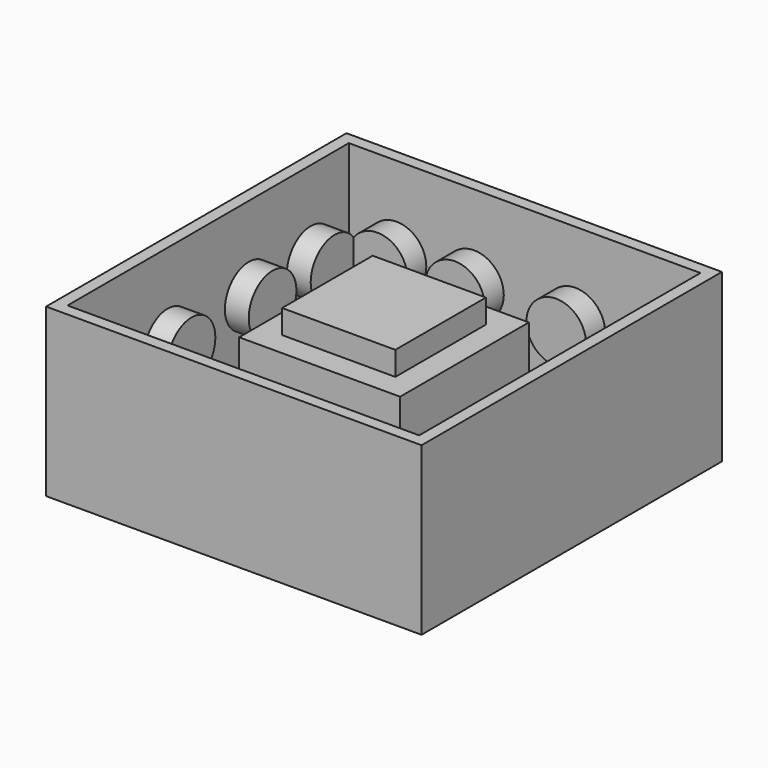
from build123d import *

# Parameters (mm, degrees)
F0_W      = 80.01
F0_H      = 80.01
F0_W_2    = 69.85
F0_H_2    = 69.85
F1_DEPTH  = 35.56
F2_T      = -2.54
F3_W      = 34.29
F3_H      = 34.29
F3_W_2    = 24.13
F3_H_2    = 24.13
F4_DEPTH  = 25.4
F5_DEPTH  = 30.48
F6_R      = 6.35
F10_DEPTH = 5.08
F7_R      = 6.35
F11_DEPTH = 5.08
F9_R      = 6.35
F12_DEPTH = 5.08
F8_R      = 6.35
F13_DEPTH = 5.08


with BuildPart() as f1:
    # F0 (on Top) → F1 (new body)
    with BuildSketch(Plane.XY):
        with Locations((-40.005, 40.005)):
            Rectangle(F0_W, F0_H)
        with Locations((-40.005, 40.005)):
            Rectangle(F0_W_2, F0_H_2, mode=Mode.SUBTRACT)
        with Locations((-40.005, 40.005)):
            Rectangle(F0_W_2, F0_H_2)
    extrude(amount=F1_DEPTH)

    # F2
    f2_openings = [f1.faces().sort_by_distance(p)[0] for p in [
        (-40.005, 40.005, 35.56),
    ]]
    offset(amount=F2_T, openings=f2_openings)

    # F3 (on face) → F4 (join)
    with BuildSketch(Plane.XY.offset(2.54)):
        with Locations((-40.005, 40.005)):
            Rectangle(F3_W, F3_H)
        with Locations((-40.005, 40.005)):
            Rectangle(F3_W_2, F3_H_2, mode=Mode.SUBTRACT)
    extrude(amount=F4_DEPTH)

    # F5 (add): a face of the model
    f5_faces = [f1.faces().sort_by_distance(p)[0] for p in [
        (-40.005, 40.005, 2.54),
    ]]
    extrude(f5_faces, amount=F5_DEPTH)

    # F6 (on face) → F10 (join)
    with BuildSketch(Plane.XZ.offset(-77.47)):
        with Locations((-12.7, 17.78)):
            Circle(F6_R)
        with Locations((-29.21, 17.78)):
            Circle(F6_R)
        with Locations((-50.8, 17.78)):
            Circle(F6_R)
        with Locations((-67.31, 17.78)):
            Circle(F6_R)
    extrude(amount=F10_DEPTH)

    # F7 (on face) → F11 (join)
    with BuildSketch(Plane(origin=(-2.54, 0, 0), x_dir=(0, -1, 0), z_dir=(-1, 0, 0))):
        with Locations((-12.7, 17.78)):
            Circle(F7_R)
        with Locations((-29.21, 17.78)):
            Circle(F7_R)
        with Locations((-50.8, 17.78)):
            Circle(F7_R)
        with Locations((-67.31, 17.78)):
            Circle(F7_R)
    extrude(amount=F11_DEPTH)

    # F9 (on face) → F12 (join)
    with BuildSketch(Plane.YZ.offset(-77.47)):
        with Locations((67.31, 17.78)):
            Circle(F9_R)
        with Locations((50.8, 17.78)):
            Circle(F9_R)
        with Locations((29.21, 17.78)):
            Circle(F9_R)
        with Locations((12.7, 17.78)):
            Circle(F9_R)
    extrude(amount=F12_DEPTH)

    # F8 (on face) → F13 (join)
    with BuildSketch(Plane(origin=(0, 2.54, 0), x_dir=(-1, 0, 0), z_dir=(0, 1, 0))):
        with Locations((29.21, 17.78)):
            Circle(F8_R)
        with Locations((50.8, 17.78)):
            Circle(F8_R)
        with Locations((67.31, 17.78)):
            Circle(F8_R)
        with Locations((12.7, 17.78)):
            Circle(F8_R)
    extrude(amount=F13_DEPTH)


solid = f1.part
